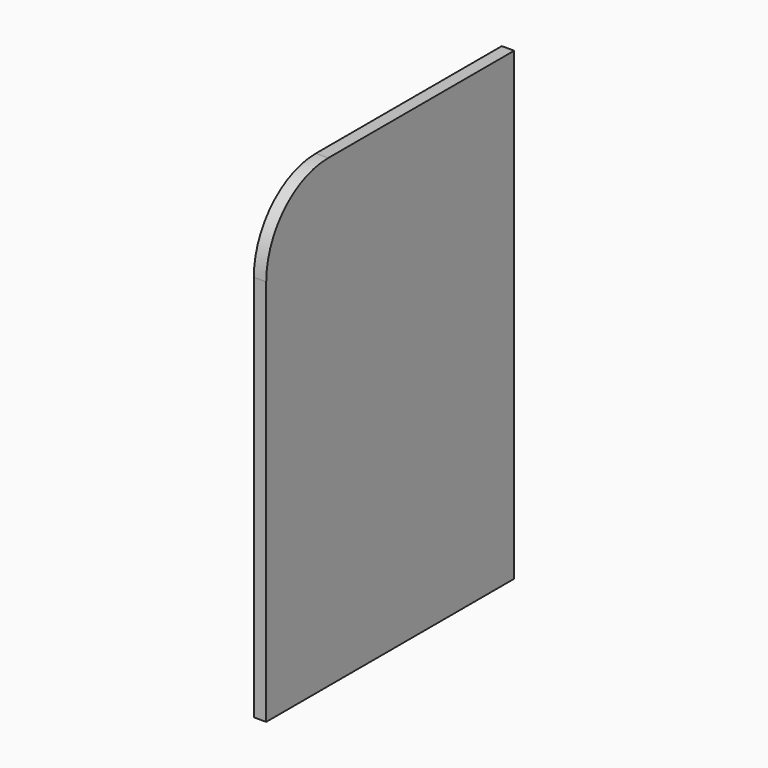
from build123d import *

# Parameters (mm, degrees)
F1_DEPTH = 0.8


with BuildPart() as f1:
    # F0 (on Right) → F1 (new body)
    with BuildSketch(Plane.YZ):
        with BuildLine():
            ThreePointArc((-4.788236, 5), (-8.32377, 3.535534), (-9.788236, 0))
            Line((-9.788236, 0), (-9.788236, -25))
            Line((-9.788236, -25), (10.211764, -25))
            Line((10.211764, -25), (10.211764, 5))
            Line((10.211764, 5), (-4.788236, 5))
        make_face()
    extrude(amount=F1_DEPTH)


solid = f1.part
